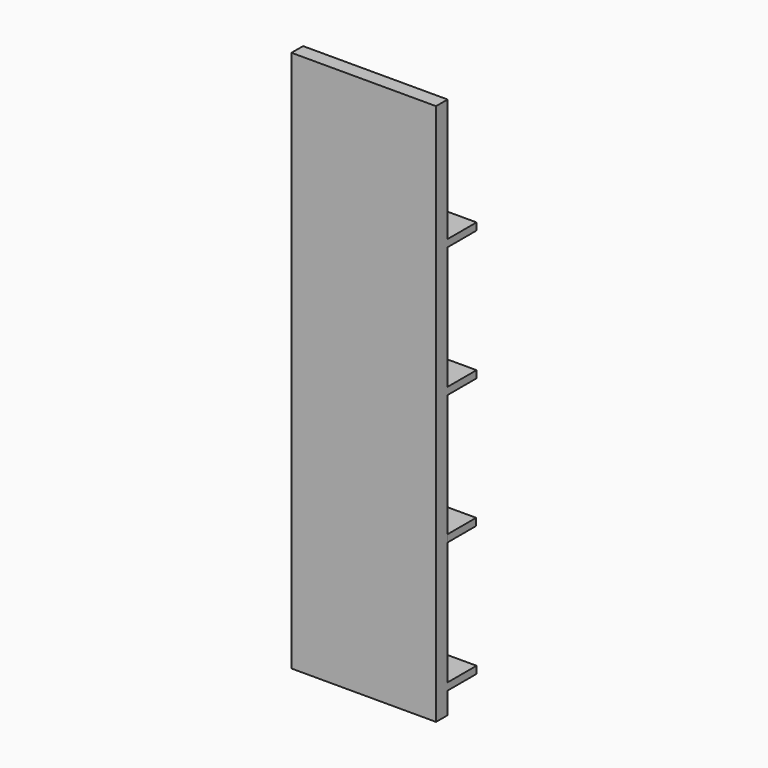
from build123d import *

# Parameters (mm, degrees)
F0_W     = 200
F0_H     = 750
F1_DEPTH = 20
F2_W     = 200
F2_H     = 10
F3_DEPTH = 50
F4_W     = 200
F4_H     = 10
F5_DEPTH = 50
F6_W     = 200
F6_H     = 10
F7_DEPTH = 50
F8_W     = 200
F8_H     = 10
F9_DEPTH = 50


with BuildPart() as f1:
    # F0 (on Front) → F1 (new body)
    with BuildSketch(Plane.XZ):
        with Locations((-217.498518, 59.845)):
            Rectangle(F0_W, F0_H)
    extrude(amount=F1_DEPTH)

    # F2 (on Front) → F3 (join)
    with BuildSketch(Plane.XZ):
        with Locations((-218.074274, -100.155)):
            Rectangle(F2_W, F2_H)
    extrude(amount=-F3_DEPTH)

    # F4 (on Front) → F5 (join)
    with BuildSketch(Plane.XZ):
        with Locations((-217.498518, 79.845)):
            Rectangle(F4_W, F4_H)
    extrude(amount=-F5_DEPTH)

    # F6 (on Front) → F7 (join)
    with BuildSketch(Plane.XZ):
        with Locations((-217.498518, 259.845)):
            Rectangle(F6_W, F6_H)
    extrude(amount=-F7_DEPTH)

    # F8 (on Front) → F9 (join)
    with BuildSketch(Plane.XZ):
        with Locations((-217.498518, -280.155)):
            Rectangle(F8_W, F8_H)
    extrude(amount=-F9_DEPTH)


solid = f1.part
